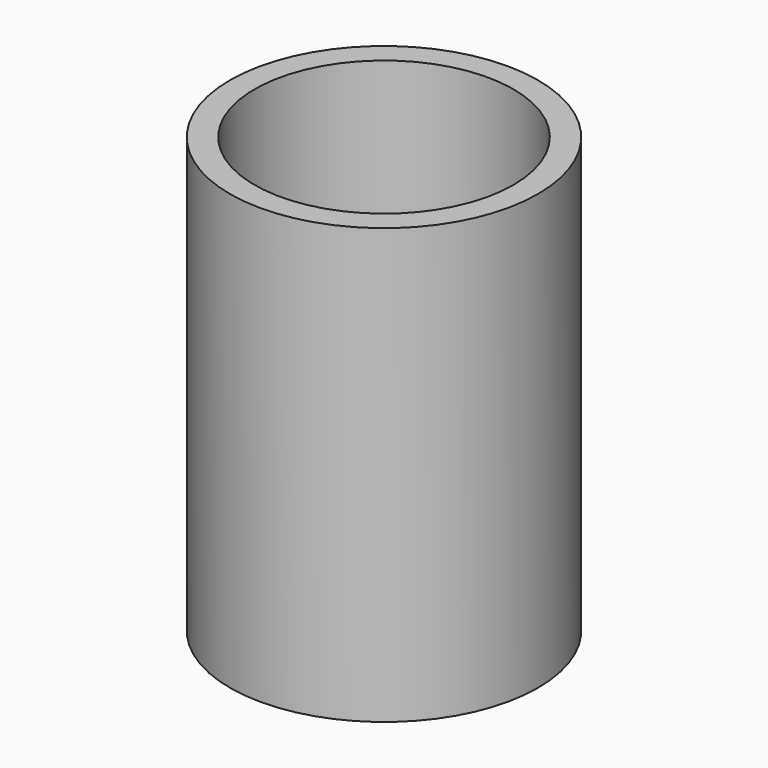
from build123d import *

# Parameters (mm, degrees)
SKETCH_R   = 13.5
SKETCH_R_2 = 11.35
PAD_DEPTH  = 38.1


with BuildPart() as part:
    # Sketch → Pad (new body)
    with BuildSketch(Plane.XY):
        Circle(SKETCH_R)
        Circle(SKETCH_R_2, mode=Mode.SUBTRACT)
    extrude(amount=PAD_DEPTH)


solid = part.part
